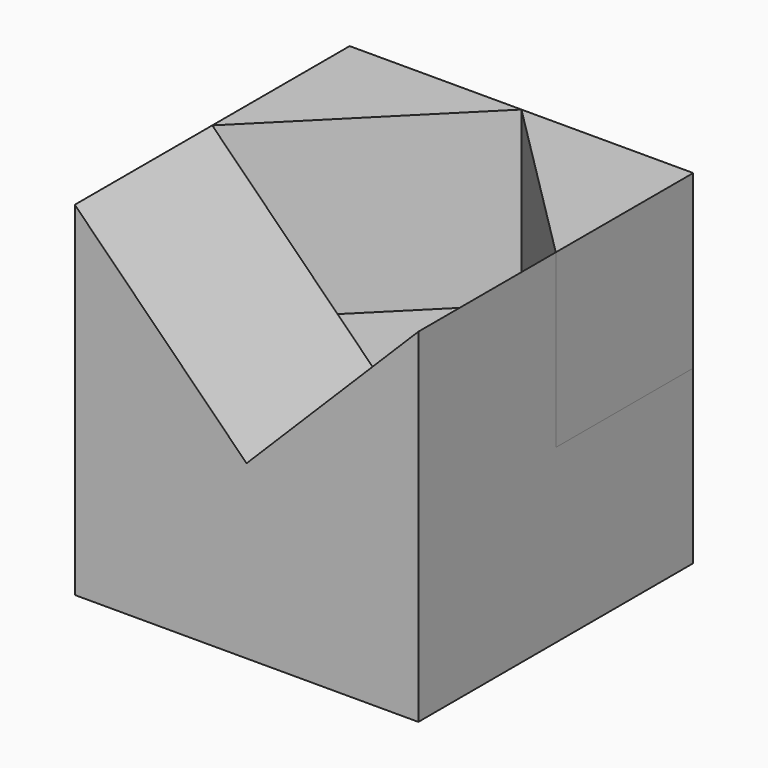
from build123d import *

# Parameters (mm, degrees)
F0_W     = 40
F0_H     = 40
F1_DEPTH = 20
F3_DEPTH = 20
F5_DEPTH = 20


with BuildPart() as f1:
    # F0 (on Top) → F1 (new body)
    with BuildSketch(Plane.XY):
        Rectangle(F0_W, F0_H)
    extrude(amount=F1_DEPTH)

    # F2 (on face) → F3 (join)
    with BuildSketch(Plane.XZ.offset(20)):
        Polygon((20, 40), (0, 20), (20, 20), align=None)
        Polygon((-20, 40), (-20, 20), (0, 20), align=None)
    extrude(amount=-F3_DEPTH)


with BuildPart() as f5:
    # F4 (on face) → F5 (new body)
    with BuildSketch(Plane.XY.offset(20)):
        Polygon((-20, 0), (0, 20), (-20, 20), align=None)
        Polygon((20, 20), (0, 20), (20, 0), align=None)
    extrude(amount=F5_DEPTH)


solid = Compound([f1.part, f5.part])
